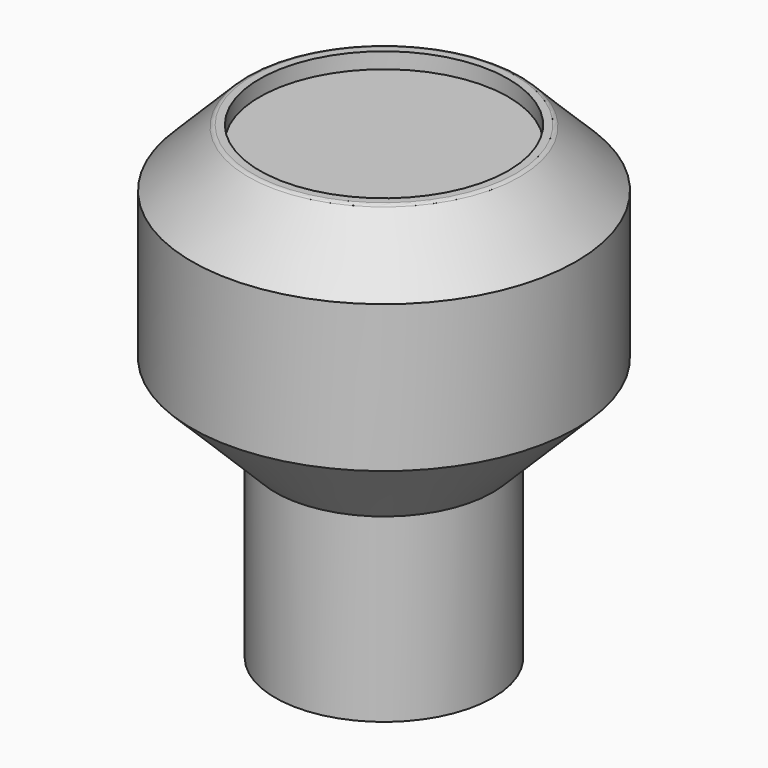
from build123d import *


with BuildPart() as part:
    # Sketch → Revolution (revolve)
    with BuildSketch(Plane.XZ):
        with BuildLine():
            Line((3, 0), (3, 21))
            Line((0, 21), (3, 21))
            Line((0, 40.1), (0, 21))
            Line((11, 40.1), (0, 40.1))
            Line((11, 41.5), (11, 40.1))
            Line((11.667893, 41.5), (11, 41.5))
            ThreePointArc((12.021447, 41.353553), (11.859235, 41.46194), (11.667893, 41.5))
            Line((17, 36.375), (12.021447, 41.353553))
            Line((17, 23.375), (17, 36.375))
            Line((9.625, 16), (17, 23.375))
            Line((9.625, 0), (9.625, 16))
            Line((3, 0), (9.625, 0))
        make_face()
    revolve(axis=Axis((0, 0, 0), (0, 0, 1)))


solid = part.part
